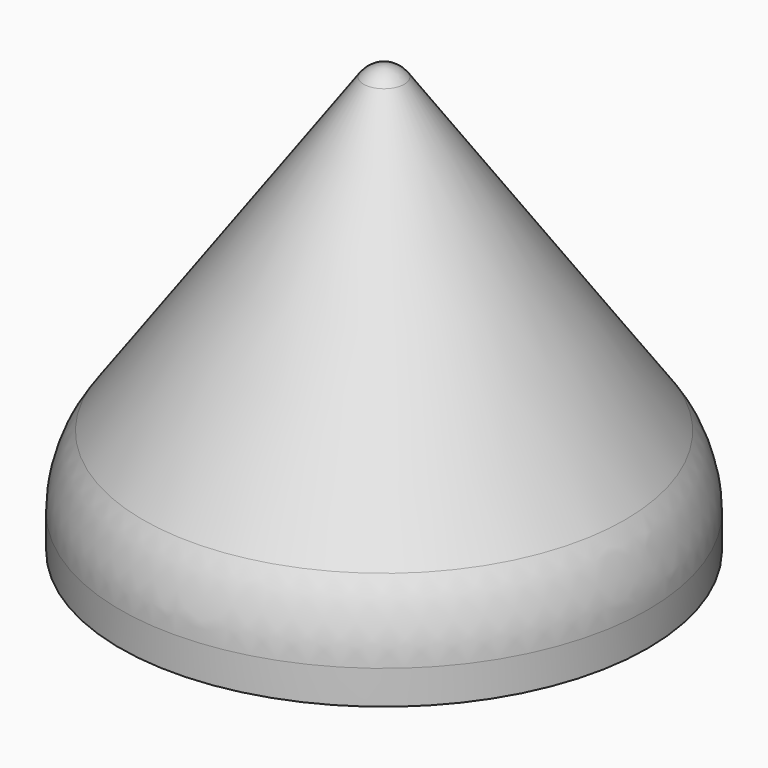
from build123d import *

# Parameters (mm, degrees)
F0_W = 53.975
F0_H = 15
F2_R = 25.4
F3_T = -2


with BuildPart() as f1:
    # F0 (on Front) → F1 (revolve)
    with BuildSketch(Plane.XZ):
        with BuildLine():
            Line((53.975, 0), (4.145404, 70.347664))
            ThreePointArc((4.145404, 70.347664), (2.333437, 71.923705), (0, 72.491336))
            Line((0, 72.491336), (0, 0))
            Line((0, 0), (53.975, 0))
        make_face()
        with Locations((26.9875, -7.5)):
            Rectangle(F0_W, F0_H)
    revolve(axis=Axis((0, 0, 38.1), (0, 0, 1)))

    # F2
    f2_edges = [f1.edges().sort_by_distance(p)[0] for p in [
        (-53.975, 0, 0),
    ]]
    fillet(f2_edges, radius=F2_R)

    # F3
    f3_openings = [f1.faces().sort_by_distance(p)[0] for p in [
        (0, 0, -15),
    ]]
    offset(amount=F3_T, openings=f3_openings)


solid = f1.part
